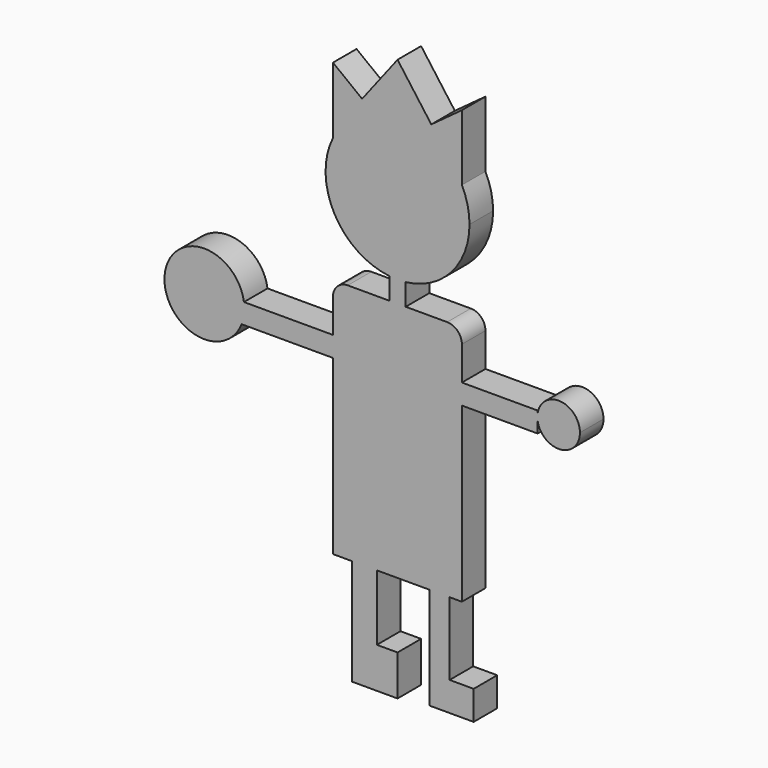
from build123d import *

# Parameters (mm, degrees)
F0_W     = 10.6513975188
F0_H     = 28.2530933619
F0_W_2   = 8.5662946613
F0_H_2   = 31.3858538866
F1_DEPTH = 12.7


with BuildPart() as f1:
    # F0 (on Front) → F1 (new body)
    with BuildSketch(Plane.XZ):
        with BuildLine():
            ThreePointArc((27.7186392723, 13.8860614419), (-0.1108388387, 31.0021512193), (-27.8172202573, 13.6875097307))
            ThreePointArc((-27.8172202573, 13.6875097307), (-27.2009176267, -14.8746679203), (-3.4863620695, -30.8056966322))
            ThreePointArc((-3.4863620695, -30.8056966322), (0.0128463192, -31.0023466926), (3.5118905362, -30.8027967941))
            ThreePointArc((3.5118905362, -30.8027967941), (23.1303104472, -20.6430231335), (31.0023493541, 0))
            ThreePointArc((31.0023493541, 0), (30.1702552509, 7.1345191546), (27.7186392723, 13.8860614419))
        make_face()
        with BuildLine():
            Line((-27.8172202573, 42.2664012245), (-27.8172202573, 13.6875097307))
            ThreePointArc((-27.8172202573, 13.6875097307), (-0.1108388387, 31.0021512193), (27.7186392723, 13.8860614419))
            Line((27.7186392723, 13.8860614419), (27.7186392723, 42.2664012245))
            Line((27.7186392723, 42.2664012245), (14.5366582813, 32.5936041772))
            Line((14.5366582813, 32.5936041772), (0, 52.4040015422))
            Line((0, 52.4040015422), (-15.2604542673, 32.5936041772))
            Line((-15.2604542673, 32.5936041772), (-27.8172202573, 42.2664012245))
        make_face()
        with BuildLine():
            ThreePointArc((3.5118905362, -30.8027967941), (0.0128463192, -31.0023466926), (-3.4863620695, -30.8056966322))
            Line((-3.4863620695, -30.8056966322), (-3.4863620695, -40.1576947717))
            Line((-3.4863620695, -40.1576947717), (3.5118905362, -40.1576947717))
            Line((3.5118905362, -40.1576947717), (3.5118905362, -30.8027967941))
        make_face()
        with BuildLine():
            Line((3.5118905362, -40.1576947717), (-3.4863620695, -40.1576947717))
            Line((-3.4863620695, -40.1576947717), (-21.4672202573, -40.1576947717))
            ThreePointArc((-21.4672202573, -40.1576947717), (-25.9573483179, -42.0175667112), (-27.8172202573, -46.5076947717))
            Line((-27.8172202573, -46.5076947717), (-27.8172202573, -61.0272106781))
            Line((-27.8172202573, -61.0272106781), (-27.8172202573, -69.7519853711))
            Line((-27.8172202573, -69.7519853711), (-27.8172202573, -75.5467265844))
            Line((-27.8172202573, -75.5467265844), (-27.8172202573, -100.148126483))
            Line((-27.8172202573, -100.148126483), (0, -100.148126483))
            Line((0, -100.148126483), (27.7186392723, -100.148126483))
            Line((27.7186392723, -100.148126483), (27.7186392723, -75.5467265844))
            Line((27.7186392723, -75.5467265844), (27.7186392723, -69.7519853711))
            Line((27.7186392723, -69.7519853711), (27.7186392723, -61.0272106781))
            Line((27.7186392723, -61.0272106781), (27.7186392723, -46.5076947717))
            ThreePointArc((27.7186392723, -46.5076947717), (25.8587673328, -42.0175667112), (21.3686392723, -40.1576947717))
            Line((21.3686392723, -40.1576947717), (3.5118905362, -40.1576947717))
        make_face()
        with BuildLine():
            Line((-27.8172202573, -69.7519853711), (-27.8172202573, -61.0272106781))
            Line((-27.8172202573, -61.0272106781), (-66.1754632035, -61.0272106781))
            ThreePointArc((-66.1754632035, -61.0272106781), (-66.0437614134, -62.2504996619), (-65.9997859122, -63.4800717235))
            ThreePointArc((-65.9997859122, -63.4800717235), (-66.2982297512, -66.6713644395), (-67.1832114458, -69.7519853711))
            Line((-67.1832114458, -69.7519853711), (-27.8172202573, -69.7519853711))
        make_face()
        with BuildLine():
            Line((60.3456832469, -61.0272106781), (27.7186392723, -61.0272106781))
            Line((27.7186392723, -61.0272106781), (27.7186392723, -69.7519853711))
            Line((27.7186392723, -69.7519853711), (60.3456832469, -69.7519853711))
            Line((60.3456832469, -69.7519853711), (60.3456832469, -64.8738052694))
            ThreePointArc((60.3456832469, -64.8738052694), (60.239101873, -63.4800717235), (60.3456832469, -62.0863381775))
            Line((60.3456832469, -62.0863381775), (60.3456832469, -61.0272106781))
        make_face()
        with BuildLine():
            ThreePointArc((-65.9997859122, -63.4800717235), (-66.0437614134, -62.2504996619), (-66.1754632035, -61.0272106781))
            Line((-66.1754632035, -61.0272106781), (-67.1832114458, -61.0272106781))
            Line((-67.1832114458, -61.0272106781), (-67.1832114458, -69.7519853711))
            ThreePointArc((-67.1832114458, -69.7519853711), (-66.2982297512, -66.6713644395), (-65.9997859122, -63.4800717235))
        make_face()
        with BuildLine():
            Line((-67.1832114458, -61.0272106781), (-66.1754632035, -61.0272106781))
            ThreePointArc((-66.1754632035, -61.0272106781), (-100.3093969079, -61.5051844293), (-67.1832114458, -69.7519853711))
            Line((-67.1832114458, -69.7519853711), (-67.1832114458, -61.0272106781))
        make_face()
        with BuildLine():
            ThreePointArc((78.5711304087, -63.4800717235), (70.104017562, -54.3407416407), (60.3456832469, -62.0863381775))
            Line((60.3456832469, -62.0863381775), (60.3456832469, -64.8738052694))
            ThreePointArc((60.3456832469, -64.8738052694), (70.104017562, -72.6194018062), (78.5711304087, -63.4800717235))
        make_face()
        with BuildLine():
            Line((60.3456832469, -64.8738052694), (60.3456832469, -62.0863381775))
            ThreePointArc((60.3456832469, -62.0863381775), (60.239101873, -63.4800717235), (60.3456832469, -64.8738052694))
        make_face()
        Polygon((0, -100.148126483), (-27.8172202573, -100.148126483), (-27.8172202573, -144.1542357206), (-19.5534285158, -144.1542357206), (-8.902030997, -144.1542357206), (0, -144.1542357206), align=None)
        Polygon((27.7186392723, -144.1542357206), (27.7186392723, -100.148126483), (0, -100.148126483), (0, -144.1542357206), (13.8593196361, -144.1542357206), (22.4256142974, -144.1542357206), align=None)
        with Locations((-14.2277297564, -158.2807824016)):
            Rectangle(F0_W, F0_H)
        with Locations((18.1424669668, -159.8471626639)):
            Rectangle(F0_W_2, F0_H_2)
        Polygon((-8.902030997, -172.4073290825), (-19.5534285158, -172.4073290825), (-19.5534285158, -189.8663640022), (0, -189.8663640022), (0, -172.4073290825), align=None)
        Polygon((32.7883400023, -175.5400896072), (22.4256142974, -175.5400896072), (13.8593196361, -175.5400896072), (13.8593196361, -188.0899369717), (32.7883400023, -188.0899369717), align=None)
    extrude(amount=F1_DEPTH)


solid = f1.part
